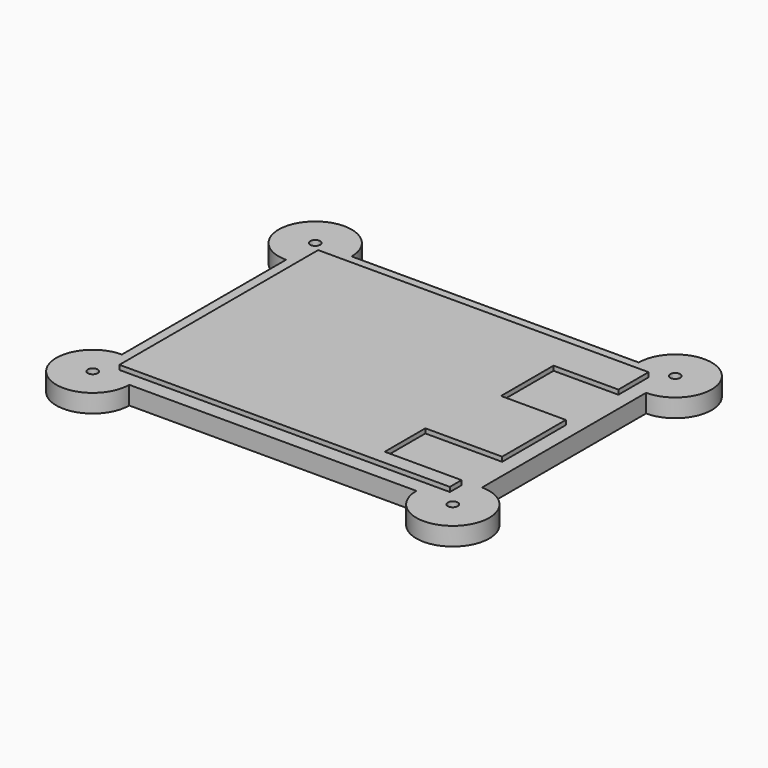
from build123d import *

# Parameters (mm, degrees)
SKETCH024_W     = 79
SKETCH024_H     = 61
PAD006_DEPTH    = 4
SKETCH025_W     = 72.5
SKETCH025_H     = 54.5
PAD007_DEPTH    = 1
SKETCH026_W     = 14.223953
SKETCH026_H     = 14.414499
SKETCH026_W_2   = 16.850891
SKETCH026_H_2   = 11.145231
POCKET015_DEPTH = 1
SKETCH029_R     = 8
PAD010_DEPTH    = 4
SKETCH030_R     = 1.1
POCKET016_DEPTH = 5.001
SKETCH031_R     = 2
POCKET017_DEPTH = 2


with BuildPart() as part:
    # Sketch024 → Pad006 (new body)
    with BuildSketch(Plane.XY):
        Rectangle(SKETCH024_W, SKETCH024_H)
    extrude(amount=-PAD006_DEPTH)

    # Sketch025 (on Face5 of Pad006) → Pad007 (join)
    with BuildSketch(Plane.XY):
        Rectangle(SKETCH025_W, SKETCH025_H)
    extrude(amount=PAD007_DEPTH)

    # Sketch026 (on Face11 of Pad007) → Pocket015 (cut)
    with BuildSketch(Plane.XY.offset(1)):
        with Locations((29.1380235, 11.7657555)):
            Rectangle(SKETCH026_W, SKETCH026_H)
        with Locations((27.8245545, -18.4755795)):
            Rectangle(SKETCH026_W_2, SKETCH026_H_2)
    extrude(amount=-POCKET015_DEPTH, mode=Mode.SUBTRACT)

    # Sketch029 (on Face5 of Pocket015) → Pad010 (join)
    with BuildSketch(Plane(origin=(0, 0, -4), x_dir=(1, 0, 0), z_dir=(0, 0, -1))):
        with Locations((39.5, 30.5)):
            Circle(SKETCH029_R)
        with Locations((39.5, -30.5)):
            Circle(SKETCH029_R)
        with Locations((-39.5, -30.5)):
            Circle(SKETCH029_R)
        with Locations((-39.5, 30.5)):
            Circle(SKETCH029_R)
    extrude(amount=-PAD010_DEPTH)

    # Sketch030 (on Face20 of Pad010) → Pocket016 (cut, through all)
    with BuildSketch(Plane(origin=(0, 0, -4), x_dir=(1, 0, 0), z_dir=(0, 0, -1))):
        with Locations((39.5, 30.5)):
            Circle(SKETCH030_R)
        with Locations((39.5, -30.5)):
            Circle(SKETCH030_R)
        with Locations((-39.5, -30.5)):
            Circle(SKETCH030_R)
        with Locations((-39.5, 30.5)):
            Circle(SKETCH030_R)
    extrude(amount=-POCKET016_DEPTH, mode=Mode.SUBTRACT)

    # Sketch031 (on Face22 of Pocket016) → Pocket017 (cut)
    with BuildSketch(Plane(origin=(0, 0, -4), x_dir=(1, 0, 0), z_dir=(0, 0, -1))):
        with Locations((-39.5, 30.5)):
            Circle(SKETCH031_R)
        with Locations((-39.5, -30.5)):
            Circle(SKETCH031_R)
        with Locations((39.5, 30.5)):
            Circle(SKETCH031_R)
        with Locations((39.5, -30.5)):
            Circle(SKETCH031_R)
    extrude(amount=-POCKET017_DEPTH, mode=Mode.SUBTRACT)


with BuildPart() as part_1:
    # Body002 placement: moved
    add(part.part.moved(Location((0, 0, -17))))


solid = part_1.part
